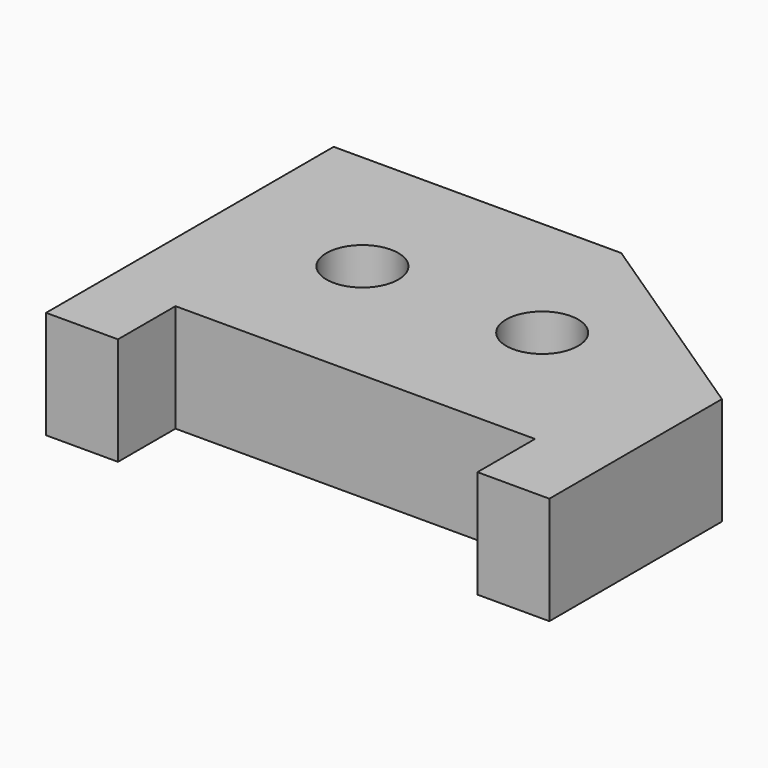
from build123d import *

# Parameters (mm, degrees)
F0_R     = 6.35
F1_DEPTH = 19.05


with BuildPart() as f1:
    # F0 (on Top) → F1 (new body)
    with BuildSketch(Plane.XY):
        Polygon((0, 63.5), (0, 0), (12.7, 0), (12.7, 12.7), (76.2, 12.7), (76.2, 0), (88.9, 0), (88.9, 38.1), (50.8, 63.5), align=None)
        with Locations((25.4, 38.1)):
            Circle(F0_R, mode=Mode.SUBTRACT)
        with Locations((57.15, 38.1)):
            Circle(F0_R, mode=Mode.SUBTRACT)
    extrude(amount=F1_DEPTH)


solid = f1.part
